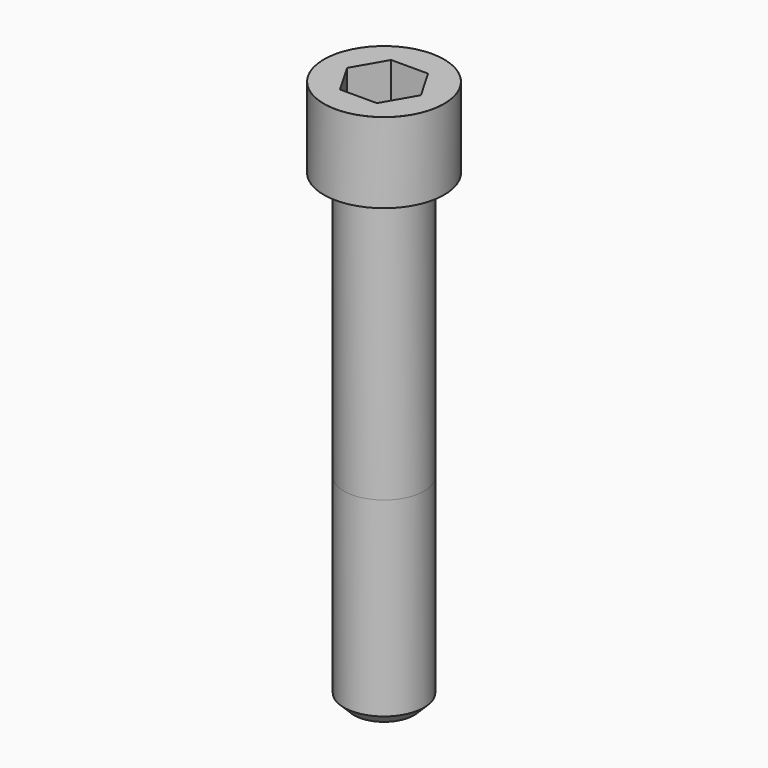
from build123d import *

# Parameters (mm, degrees)
POCKET_DEPTH = 19.15


with BuildPart() as part:
    # Sketch → Revolve (revolve)
    with BuildSketch(Plane.YZ):
        with BuildLine():
            Line((11.999, 0), (18, 0))
            Line((18, 0), (18, 23.97229))
            ThreePointArc((18, 23.97229), (17.991884, 23.991884), (17.97229, 24))
            Line((17.97229, 24), (0, 24))
            Line((0, -140), (0, 24))
            Line((9, -140), (0, -140))
            Line((12, -137), (9, -140))
            Line((12, -80), (12, -137))
            Line((11.999, 0), (12, -80))
        make_face()
    revolve(axis=Axis((0, 0, 0), (0, 0, 1)))

    # Sketch001 → Pocket (cut)
    with BuildSketch(Plane.XY.offset(24)):
        Polygon((11.056258, 0), (5.528129, 9.575), (-5.528129, 9.575), (-11.056258, 0), (-5.528129, -9.575), (5.528129, -9.575), align=None)
    extrude(amount=-POCKET_DEPTH, mode=Mode.SUBTRACT)


solid = part.part
